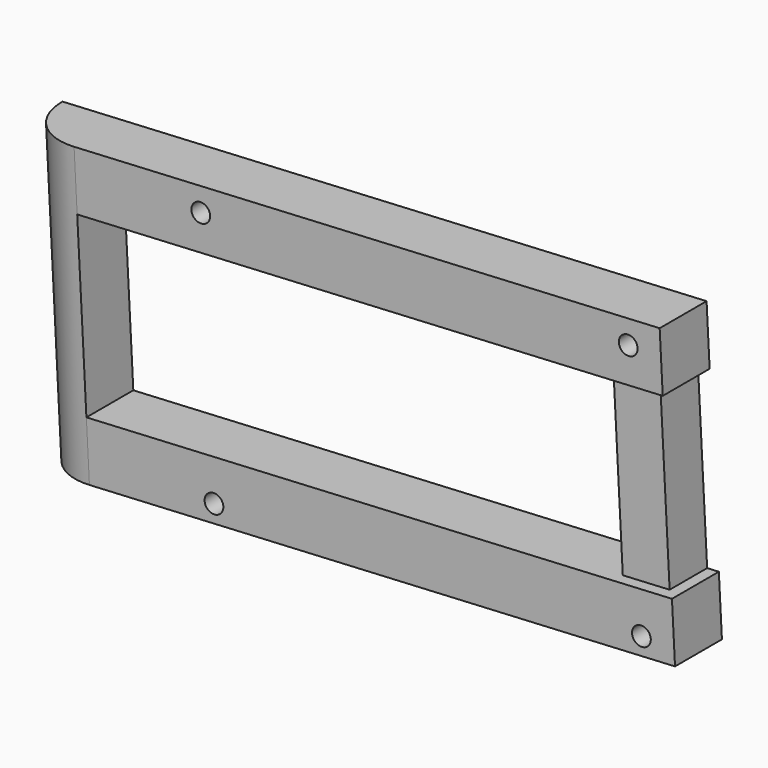
from build123d import *

# Parameters (mm, degrees)
CYLINDER127_R             = 1.6
CYLINDER127_DEPTH         = 25
CYLINDER126_R             = 1.6
CYLINDER126_DEPTH         = 25
CYLINDER128_R             = 1.6
CYLINDER128_DEPTH         = 25
CYLINDER129_R             = 1.6
CYLINDER129_DEPTH         = 25
FUSION106_PLACEMENT_ANGLE = 3
BOX058_W                  = 8
BOX058_H                  = 8
BOX058_DEPTH              = 50
BOX057_W                  = 110
BOX057_H                  = 10
BOX057_DEPTH              = 10
BOX059_W                  = 10
BOX059_H                  = 10
BOX059_DEPTH              = 50
BOX056_W                  = 110
BOX056_H                  = 10
BOX056_DEPTH              = 10
FILLET026_R               = 9.99
FILLET026_PLACEMENT_ANGLE = 3


with BuildPart() as cylinder127:
    # Cylinder127 → Cylinder127 (new body)
    with BuildSketch(Plane(origin=(76.5, 96, 46.5), x_dir=(1, 0, 0), z_dir=(0, -1, 0))):
        Circle(CYLINDER127_R)
    extrude(amount=CYLINDER127_DEPTH)


with BuildPart() as cylinder126:
    # Cylinder126 → Cylinder126 (new body)
    with BuildSketch(Plane(origin=(76.5, 96, 3.5), x_dir=(1, 0, 0), z_dir=(0, -1, 0))):
        Circle(CYLINDER126_R)
    extrude(amount=CYLINDER126_DEPTH)


with BuildPart() as cylinder128:
    # Cylinder128 → Cylinder128 (new body)
    with BuildSketch(Plane(origin=(3.5, 96, 46.5), x_dir=(1, 0, 0), z_dir=(0, -1, 0))):
        Circle(CYLINDER128_R)
    extrude(amount=CYLINDER128_DEPTH)


with BuildPart() as fusion106:
    # Cylinder129 → Cylinder129 (new body)
    with BuildSketch(Plane(origin=(3.5, 96, 3.5), x_dir=(1, 0, 0), z_dir=(0, -1, 0))):
        Circle(CYLINDER129_R)
    extrude(amount=CYLINDER129_DEPTH)

    # Fusion106: union Cylinder127, Cylinder126, Cylinder128
    add(cylinder127.part)
    add(cylinder126.part)
    add(cylinder128.part)


with BuildPart() as fusion106_1:
    # Fusion106 placement: moved
    add(fusion106.part.moved(Location((306, -120, -55))).rotate(Axis((306, -120, -55), (0, -1, 0)), FUSION106_PLACEMENT_ANGLE))


with BuildPart() as cube037:
    # Box058 → Box058 (new body)
    with BuildSketch(Plane(origin=(100, 2, -40), x_dir=(1, 0, 0), z_dir=(0, 0, 1))):
        with Locations((4, 4)):
            Rectangle(BOX058_W, BOX058_H)
    extrude(amount=BOX058_DEPTH)


with BuildPart() as cube036:
    # Box057 → Box057 (new body)
    with BuildSketch(Plane.XY.offset(-40)):
        with Locations((55, 5)):
            Rectangle(BOX057_W, BOX057_H)
    extrude(amount=BOX057_DEPTH)


with BuildPart() as cube038:
    # Box059 → Box059 (new body)
    with BuildSketch(Plane.XY.offset(-40)):
        with Locations((5, 5)):
            Rectangle(BOX059_W, BOX059_H)
    extrude(amount=BOX059_DEPTH)


with BuildPart() as cut067:
    # Box056 → Box056 (new body)
    with BuildSketch(Plane.XY):
        with Locations((55, 5)):
            Rectangle(BOX056_W, BOX056_H)
    extrude(amount=BOX056_DEPTH)

    # Fusion100: union Cube037, Cube036, Cube038
    add(cube037.part)
    add(cube036.part)
    add(cube038.part)

    # Fillet026
    fillet026_edges = [cut067.edges().sort_by_distance(p)[0] for p in [
        (0, 0, -15),
    ]]
    fillet(fillet026_edges, radius=FILLET026_R)


with BuildPart() as cut067_1:
    # Fillet026 placement: moved
    add(cut067.part.moved(Location((276, -49, -16))).rotate(Axis((276, -49, -16), (0, -1, 0)), FILLET026_PLACEMENT_ANGLE))

    # Cut067: cut Fusion106
    add(fusion106_1.part, mode=Mode.SUBTRACT)


with BuildPart() as cut067_2:
    # Cut067 placement: moved
    add(cut067_1.part.moved(Location((0, -5, 0))))


solid = cut067_2.part
